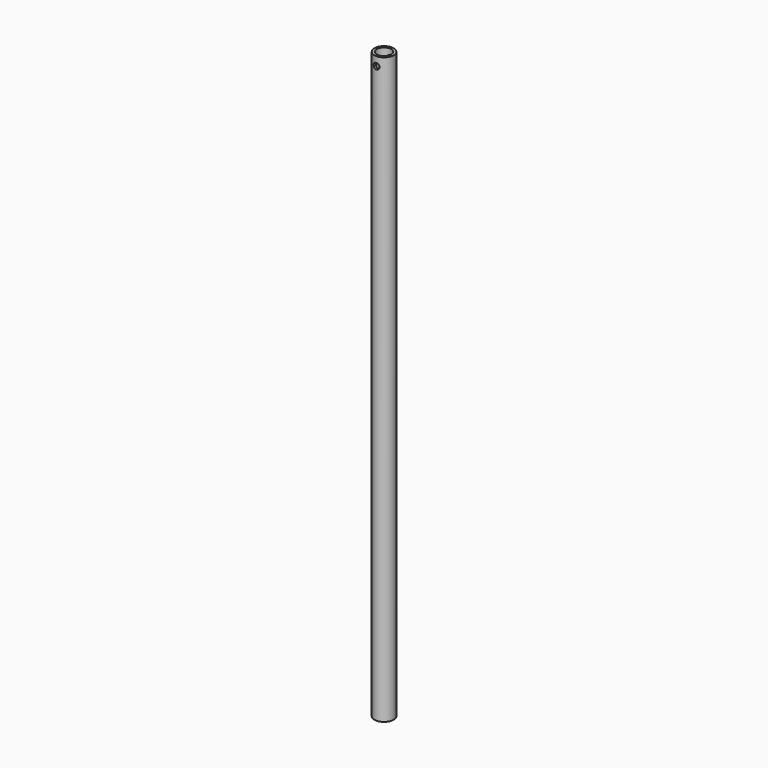
from build123d import *

# Parameters (mm, degrees)
F0_R          = 24.4
F0_R_2        = 18.36585117
F1_DEPTH      = 60
F2_R          = 24.4
F2_R_2        = 18.36585117
F3_DEPTH      = 1425
F4_R          = 7.5
F5_DEPTH      = 24.401
F5_DEPTH_BACK = 24.401


with BuildPart() as f1:
    # F0 (on Top) → F1 (new body)
    with BuildSketch(Plane.XY):
        Circle(F0_R)
        Circle(F0_R_2, mode=Mode.SUBTRACT)
    extrude(amount=F1_DEPTH)

    # F2 (on Top) → F3 (join)
    with BuildSketch(Plane.XY):
        Circle(F2_R)
        Circle(F2_R_2, mode=Mode.SUBTRACT)
    extrude(amount=-F3_DEPTH)

    # F4 (on Front) → F5 (cut, two sides)
    with BuildSketch(Plane.XZ) as f5_sk:
        with Locations((0, 37.5)):
            Circle(F4_R)
    extrude(amount=-F5_DEPTH, mode=Mode.SUBTRACT)
    extrude(f5_sk.sketch, amount=F5_DEPTH_BACK, mode=Mode.SUBTRACT)


solid = f1.part
